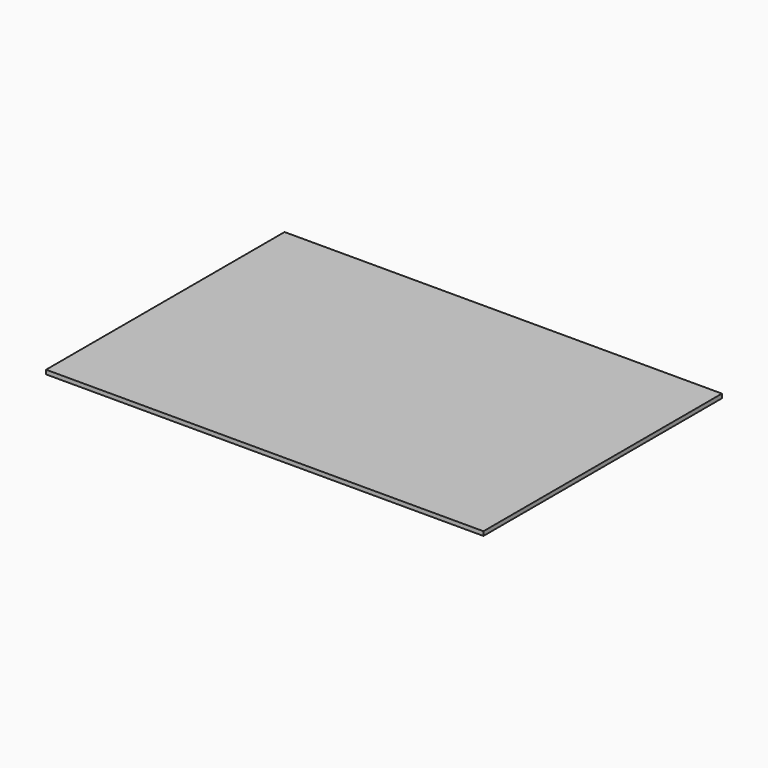
from build123d import *

# Parameters (mm, degrees)
SKETCH001_W = 214
SKETCH001_H = 314
PAD_DEPTH   = 3


with BuildPart() as part:
    # Sketch001 → Pad (new body)
    with BuildSketch(Plane(origin=(110.543777, 322.172485, 403.912964), x_dir=(0, -1, 0), z_dir=(0, 0, 1))):
        with Locations((-107, 157)):
            Rectangle(SKETCH001_W, SKETCH001_H)
    extrude(amount=PAD_DEPTH)


solid = part.part
